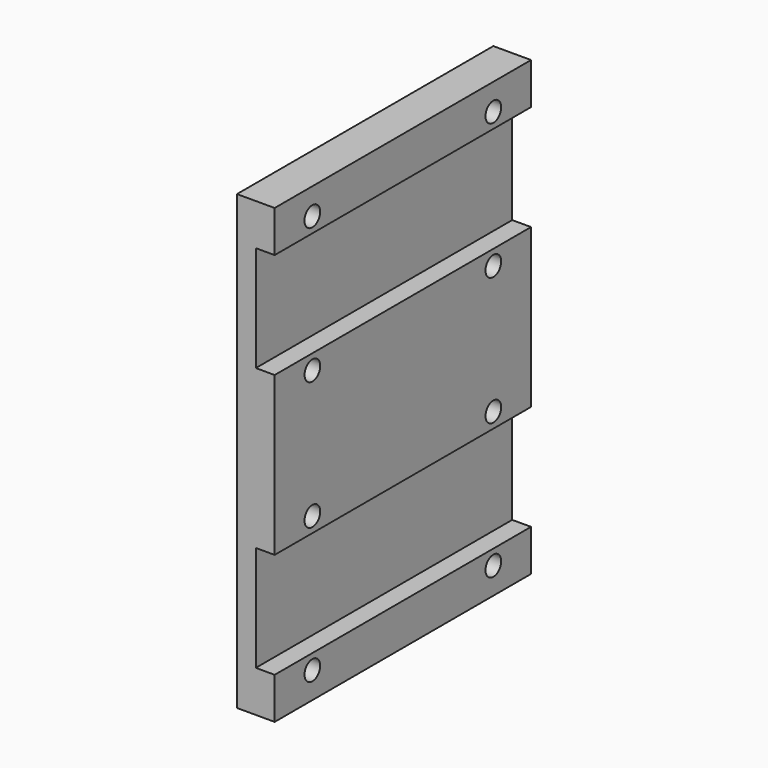
from build123d import *

# Parameters (mm, degrees)
SKETCH_W        = 85
SKETCH_H        = 120
PAD_DEPTH       = 10
SKETCH001_R     = 2.6
POCKET_DEPTH    = 10
SKETCH002_W     = 85
SKETCH002_H     = 28
POCKET001_DEPTH = 5
SKETCH003_W     = 10
SKETCH003_H     = 20
PAD001_DEPTH    = 12
SKETCH004_R     = 1.7
SKETCH004_W     = 6
SKETCH004_H     = 2
POCKET002_DEPTH = 10
SKETCH005_R     = 1.7
SKETCH005_W     = 6
SKETCH005_H     = 2
POCKET003_DEPTH = 10


with BuildPart() as part:
    # Sketch → Pad (new body)
    with BuildSketch(Plane.YZ):
        with Locations((42.5, 60)):
            Rectangle(SKETCH_W, SKETCH_H)
    extrude(amount=PAD_DEPTH)

    # Sketch001 (on Face6 of Pad) → Pocket (cut)
    with BuildSketch(Plane.YZ.offset(10)):
        with Locations((12.496559, 7)):
            Circle(SKETCH001_R)
        with Locations((72.499756, 7)):
            Circle(SKETCH001_R)
        with Locations((12.498186, 43)):
            Circle(SKETCH001_R)
        with Locations((72.504387, 43)):
            Circle(SKETCH001_R)
        with Locations((12.483372, 113)):
            Circle(SKETCH001_R)
        with Locations((72.5, 113)):
            Circle(SKETCH001_R)
        with Locations((72.5, 77)):
            Circle(SKETCH001_R)
        with Locations((12.510227, 77)):
            Circle(SKETCH001_R)
    extrude(amount=-POCKET_DEPTH, mode=Mode.SUBTRACT)

    # Sketch002 (on Face5 of Pocket) → Pocket001 (cut)
    with BuildSketch(Plane.YZ.offset(10)):
        with Locations((42.5, 25)):
            Rectangle(SKETCH002_W, SKETCH002_H)
        with Locations((42.5, 95)):
            Rectangle(SKETCH002_W, SKETCH002_H)
    extrude(amount=-POCKET001_DEPTH, mode=Mode.SUBTRACT)

    # Sketch003 (on Face4 of Pocket001) → Pad001 (join)
    with BuildSketch(Plane(origin=(0, 0, 0), x_dir=(0, 1, 0), z_dir=(-1, 0, 0))):
        with Locations((20, -60)):
            Rectangle(SKETCH003_W, SKETCH003_H)
        with Locations((65, -60)):
            Rectangle(SKETCH003_W, SKETCH003_H)
    extrude(amount=PAD001_DEPTH)

    # Sketch004 (on Face28 of Pad001) → Pocket002 (cut)
    with BuildSketch(Plane(origin=(0, 15, 0), x_dir=(0, 0, -1), z_dir=(0, -1, 0))):
        with Locations((-67, -5)):
            Circle(SKETCH004_R)
        with Locations((-53, -5)):
            Circle(SKETCH004_R)
        with Locations((-60.033646, -1)):
            Rectangle(SKETCH004_W, SKETCH004_H)
        with Locations((-60, -6.999858)):
            Rectangle(SKETCH004_W, SKETCH004_H)
    extrude(amount=-POCKET002_DEPTH, mode=Mode.SUBTRACT)

    # Sketch005 (on Face19 of Pocket002) → Pocket003 (cut)
    with BuildSketch(Plane.ZX.offset(70)):
        with Locations((53, -5)):
            Circle(SKETCH005_R)
        with Locations((67, -5)):
            Circle(SKETCH005_R)
        with Locations((60, -1)):
            Rectangle(SKETCH005_W, SKETCH005_H)
        with Locations((60, -7)):
            Rectangle(SKETCH005_W, SKETCH005_H)
    extrude(amount=-POCKET003_DEPTH, mode=Mode.SUBTRACT)


solid = part.part
